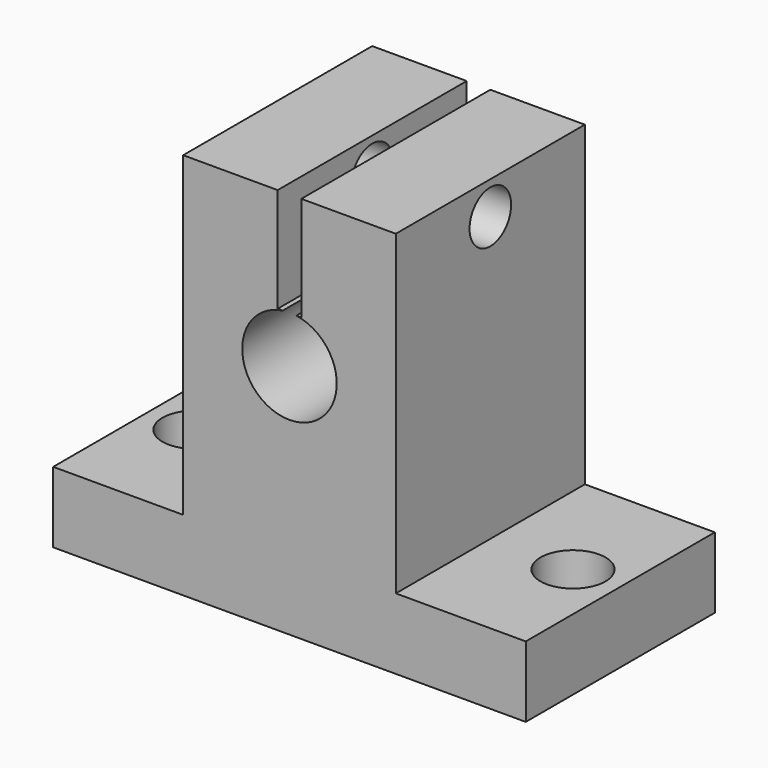
from build123d import *

# Parameters (mm, degrees)
SKETCH008_W     = 40
SKETCH008_H     = 20
SKETCH008_R     = 2.75
PAD005_DEPTH    = 6
SKETCH009_W     = 18
SKETCH009_H     = 20
PAD006_DEPTH    = 26.8
SKETCH010_R     = 4
POCKET001_DEPTH = 20.001
SKETCH011_W     = 2
SKETCH011_H     = 8.8415096984
POCKET002_DEPTH = 20.001
SKETCH012_R     = 2.2
POCKET003_DEPTH = 29.001


with BuildPart() as part:
    # Sketch008 → Pad005 (new body)
    with BuildSketch(Plane.XY):
        Rectangle(SKETCH008_W, SKETCH008_H)
        with Locations((-16, 0)):
            Circle(SKETCH008_R, mode=Mode.SUBTRACT)
        with Locations((16, 0)):
            Circle(SKETCH008_R, mode=Mode.SUBTRACT)
    extrude(amount=PAD005_DEPTH)

    # Sketch009 (on Face8 of Pad005) → Pad006 (join)
    with BuildSketch(Plane.XY.offset(6)):
        Rectangle(SKETCH009_W, SKETCH009_H)
    extrude(amount=PAD006_DEPTH)

    # Sketch010 (on Face14 of Pad006) → Pocket001 (cut, through all)
    with BuildSketch(Plane.XZ.offset(10)):
        with Locations((0, 20)):
            Circle(SKETCH010_R)
    extrude(amount=-POCKET001_DEPTH, mode=Mode.SUBTRACT)

    # Sketch011 (on Face15 of Pocket001) → Pocket002 (cut, through all)
    with BuildSketch(Plane.XZ.offset(10)):
        with Locations((0, 28.3792451508)):
            Rectangle(SKETCH011_W, SKETCH011_H)
    extrude(amount=-POCKET002_DEPTH, mode=Mode.SUBTRACT)

    # Sketch012 (on Face12 of Pocket002) → Pocket003 (cut, through all)
    with BuildSketch(Plane.YZ.offset(9)):
        with Locations((0, 30)):
            Circle(SKETCH012_R)
    extrude(amount=-POCKET003_DEPTH, mode=Mode.SUBTRACT)


solid = part.part
